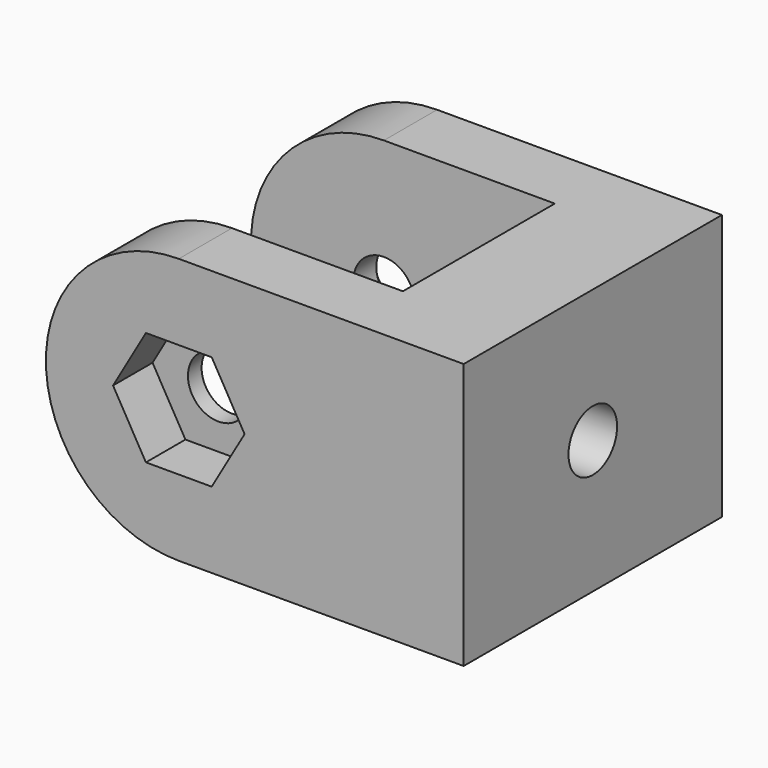
from build123d import *

# Parameters (mm, degrees)
F0_R     = 1.6
F4_DEPTH = 3.5
F3_W     = 17
F3_H     = 14
F3_R     = 1.6
F7_DEPTH = 6
F8_R     = 1.6
F9_DEPTH = 2.6
F10_SIZE = 2


with BuildPart() as f4:
    # F0 (on Front) → F4 (new body, through all)
    with BuildSketch(Plane.XZ):
        with BuildLine():
            Line((-29.0554127395, 14.3491971341), (-44.0554127395, 14.3491971341))
            ThreePointArc((-44.0554127395, 14.3491971341), (-51.0554127395, 7.3491971341), (-44.0554127395, 0.3491971341))
            Line((-44.0554127395, 0.3491971341), (-29.0554127395, 0.3491971341))
            Line((-29.0554127395, 0.3491971341), (-29.0554127395, 14.3491971341))
        make_face()
        with Locations((-44.0554127395, 7.3491971341)):
            Circle(F0_R, mode=Mode.SUBTRACT)
    extrude(amount=-F4_DEPTH)


with BuildPart() as f6_1:
    # F6: instance of F4
    add(f4.part.mirror(Plane(origin=(0, 8.5, 0), x_dir=(-1, 0, 0), z_dir=(0, 1, 0))))


with BuildPart() as f4_1:
    add(f4.part)

    add(f6_1.part)  # F7 merges F6_1
    # F3 (on face) → F7 (join, through all)
    with BuildSketch(Plane.YZ.offset(-29.0554127395)):
        with Locations((8.5, 7.3491971341)):
            Rectangle(F3_W, F3_H)
        with Locations((8.5, 7.3491971341)):
            Circle(F3_R, mode=Mode.SUBTRACT)
    extrude(amount=-F7_DEPTH)

    # F8 (on face) → F9 (cut)
    with BuildSketch(Plane.XZ):
        Polygon((-42.3233619319, 10.3491971341), (-45.7874635471, 10.3491971341), (-47.5195143547, 7.3491971341), (-45.7874635471, 4.3491971341), (-42.3233619319, 4.3491971341), (-40.5913111244, 7.3491971341), align=None)
        with Locations((-44.0554127395, 7.3491971341)):
            Circle(F8_R, mode=Mode.SUBTRACT)
    extrude(amount=-F9_DEPTH, mode=Mode.SUBTRACT)

    # F10
    f10_edges = [f4_1.edges().sort_by_distance(p)[0] for p in [
        (-45.655413, 17, 7.349197),
        (-35.055413, 6.9, 7.349197),
    ]]
    chamfer(f10_edges, length=F10_SIZE)


solid = f4_1.part
